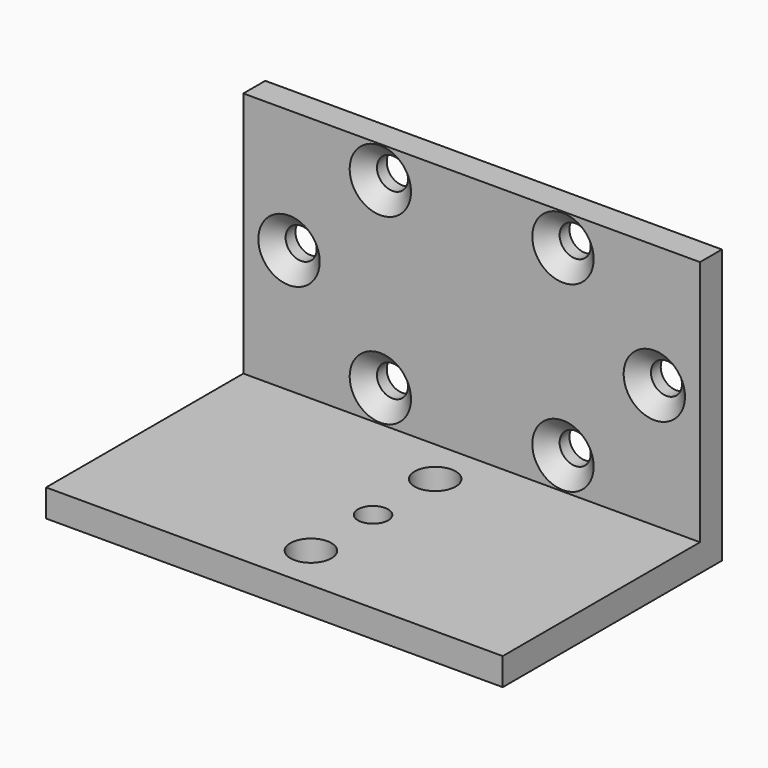
from build123d import *

# Parameters (mm, degrees)
F0_W           = 50
F0_H           = 27
F1_DEPTH       = 3
F2_D           = 3.4
F2_CSINK_D     = 6.72
F2_CSINK_ANGLE = 90
F3_DEPTH       = 3
F0_H_2         = 3
F4_DEPTH       = 27
F6_D           = 3.3
F7_D           = 4.5


with BuildPart() as f1:
    # F0 (on Front) → F1 (new body)
    with BuildSketch(Plane.XZ):
        with Locations((25, 16.5)):
            Rectangle(F0_W, F0_H)
    extrude(amount=-F1_DEPTH)

    # F2 (through all)
    with Locations(Plane.XZ):
        with Locations((35, 26.5), (15, 26.5), (15, 6.5), (35, 6.5), (5, 16.5), (45, 16.5)):
            CounterSinkHole(F2_D / 2, F2_CSINK_D / 2, counter_sink_angle=F2_CSINK_ANGLE)

    # F3 (add): a face of the model
    f3_faces = [f1.faces().sort_by_distance(p)[0] for p in [
        (25, 1.5, 3),
    ]]
    extrude(f3_faces, amount=F3_DEPTH)

    # F0 (on Front) → F4 (join)
    with BuildSketch(Plane.XZ):
        with Locations((25, 1.5)):
            Rectangle(F0_W, F0_H_2)
    extrude(amount=F4_DEPTH)

    # F6 (through all)
    with Locations(Plane.XY.offset(3)):
        with Locations((25, -13.5)):
            Hole(F6_D / 2)

    # F7 (through all)
    with Locations(Plane.XY.offset(3)):
        with Locations((25, -5), (25, -22)):
            Hole(F7_D / 2)


solid = f1.part
